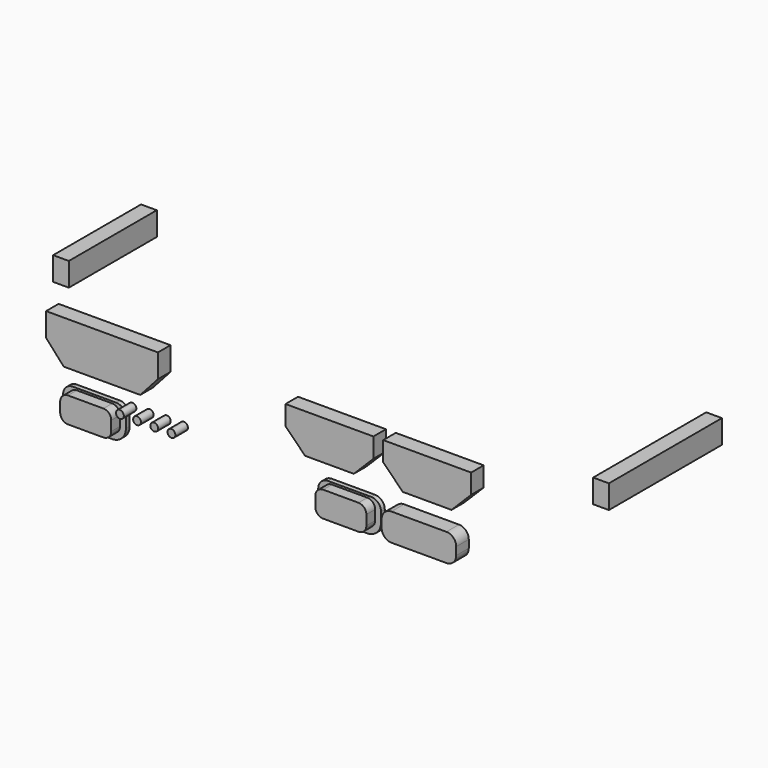
from build123d import *

# Parameters (mm, degrees)
EXTRUDE018_DEPTH = 0.6
EXTRUDE019_DEPTH = 0.6
SKETCH004_R      = 0.5
EXTRUDE004_DEPTH = 2
SKETCH012_W      = 18
SKETCH012_H      = 3
EXTRUDE012_DEPTH = 2
SKETCH013_W      = 14
SKETCH013_H      = 3
EXTRUDE013_DEPTH = 2


with BuildPart() as buttoncuts:
    # Sketch018 → Extrude018 (new body)
    with BuildSketch(Plane.XZ):
        with BuildLine():
            ThreePointArc((11.8, 16.7), (10.916117, 16.333883), (10.55, 15.45))
            Line((10.55, 14.2), (10.55, 15.45))
            ThreePointArc((10.55, 14.2), (11.062563, 12.962563), (12.3, 12.45))
            Line((16.8, 12.45), (12.3, 12.45))
            ThreePointArc((16.8, 12.45), (18.037437, 12.962563), (18.55, 14.2))
            Line((18.55, 15.45), (18.55, 14.2))
            ThreePointArc((18.55, 15.45), (18.183883, 16.333883), (17.3, 16.7))
            Line((11.8, 16.7), (17.3, 16.7))
        make_face()
    extrude(amount=EXTRUDE018_DEPTH)


with BuildPart() as buttoncuts_1:
    # Extrude018 placement: moved
    add(buttoncuts.part.moved(Location((0, 2, 0))))


with BuildPart() as bottombuttoncuts002:
    # Sketch019 → Extrude019 (new body)
    with BuildSketch(Plane.XZ):
        with BuildLine():
            ThreePointArc((11.8, 16.7), (10.916117, 16.333883), (10.55, 15.45))
            Line((10.55, 14.2), (10.55, 15.45))
            ThreePointArc((10.55, 14.2), (11.062563, 12.962563), (12.3, 12.45))
            Line((16.8, 12.45), (12.3, 12.45))
            ThreePointArc((16.8, 12.45), (18.037437, 12.962563), (18.55, 14.2))
            Line((18.55, 15.45), (18.55, 14.2))
            ThreePointArc((18.55, 15.45), (18.183883, 16.333883), (17.3, 16.7))
            Line((11.8, 16.7), (17.3, 16.7))
        make_face()
    extrude(amount=EXTRUDE019_DEPTH)


with BuildPart() as bottombuttoncuts002_1:
    # Extrude019 placement: moved
    add(bottombuttoncuts002.part.moved(Location((32.5, 2, 0))))

    # Fusion022: union buttonCuts
    add(buttoncuts_1.part)


with BuildPart() as obj1:
    # Sketch004 → Extrude004 (new body)
    with BuildSketch(Plane.XZ):
        with Locations((18.9, 16.475)):
            Circle(SKETCH004_R)
        with Locations((21.09, 16.475)):
            Circle(SKETCH004_R)
        with Locations((23.28, 16.475)):
            Circle(SKETCH004_R)
        with Locations((25.47, 16.475)):
            Circle(SKETCH004_R)
        Polygon((11.75, 19.5), (21.5, 19.5), (23.75, 22), (23.75, 25), (9.5, 25), (9.5, 22), align=None)
        Polygon((40, 24.5), (40, 22), (42.5, 19.5), (48.7, 19.5), (51.2, 22), (51.2, 24.5), align=None)
        Polygon((52.45, 24.5), (52.45, 22), (54.95, 19.5), (61.15, 19.5), (63.65, 22), (63.65, 24.5), align=None)
        with BuildLine():
            ThreePointArc((12.3, 16.45), (11.592893, 16.157107), (11.3, 15.45))
            Line((11.3, 15.45), (11.3, 14.2))
            ThreePointArc((11.3, 14.2), (11.592893, 13.492893), (12.3, 13.2))
            Line((12.3, 13.2), (16.8, 13.2))
            ThreePointArc((16.8, 13.2), (17.507107, 13.492893), (17.8, 14.2))
            Line((17.8, 15.45), (17.8, 14.2))
            ThreePointArc((17.8, 15.45), (17.507107, 16.157107), (16.8, 16.45))
            Line((12.3, 16.45), (16.8, 16.45))
        make_face()
        with BuildLine():
            Line((44.8, 16.45), (49.3, 16.45))
            ThreePointArc((50.3, 15.45), (50.007107, 16.157107), (49.3, 16.45))
            Line((50.3, 15.45), (50.3, 14.2))
            ThreePointArc((49.3, 13.2), (50.007107, 13.492893), (50.3, 14.2))
            Line((49.3, 13.2), (44.8, 13.2))
            ThreePointArc((43.8, 14.2), (44.092893, 13.492893), (44.8, 13.2))
            Line((43.8, 15.45), (43.8, 14.2))
            ThreePointArc((44.8, 16.45), (44.092893, 16.157107), (43.8, 15.45))
        make_face()
        with BuildLine():
            Line((52.25, 15.58), (52.25, 14.58))
            ThreePointArc((52.25, 14.58), (52.616117, 13.696117), (53.5, 13.33))
            Line((53.5, 13.33), (60.500008, 13.33))
            ThreePointArc((60.500008, 13.33), (61.383886, 13.696119), (61.75, 14.58))
            Line((61.75, 15.58), (61.75, 14.58))
            ThreePointArc((61.75, 15.58), (61.383883, 16.463884), (60.5, 16.83))
            Line((53.5, 16.83), (60.5, 16.83))
            ThreePointArc((53.5, 16.83), (52.616117, 16.463883), (52.25, 15.58))
        make_face()
    extrude(amount=EXTRUDE004_DEPTH)


with BuildPart() as obj1_1:
    # Extrude004 placement: moved
    add(obj1.part.moved(Location((0, 2, 0))))


with BuildPart() as obj2:
    # Sketch012 → Extrude012 (new body)
    with BuildSketch(Plane.YZ):
        with Locations((17, 21.5)):
            Rectangle(SKETCH012_W, SKETCH012_H)
    extrude(amount=EXTRUDE012_DEPTH)


with BuildPart() as obj2_1:
    # Extrude012 placement: moved
    add(obj2.part.moved(Location((72, 1, 0))))


with BuildPart() as bottomcuts:
    # Sketch013 (on Extrude) → Extrude013 (new body)
    with BuildSketch(Plane(origin=(72, 1, 0), x_dir=(0, 1, 0), z_dir=(1, 0, 0))):
        with Locations((19, 21.4)):
            Rectangle(SKETCH013_W, SKETCH013_H)
    extrude(amount=EXTRUDE013_DEPTH)


with BuildPart() as bottomcuts_1:
    # Extrude013 placement: moved
    add(bottomcuts.part.moved(Location((-72, 0, 0))))

    # Fusion017: union obj2
    add(obj2_1.part)

    # Fusion030: union bottomButtonCuts002, obj1
    add(bottombuttoncuts002_1.part)
    add(obj1_1.part)


solid = bottomcuts_1.part
